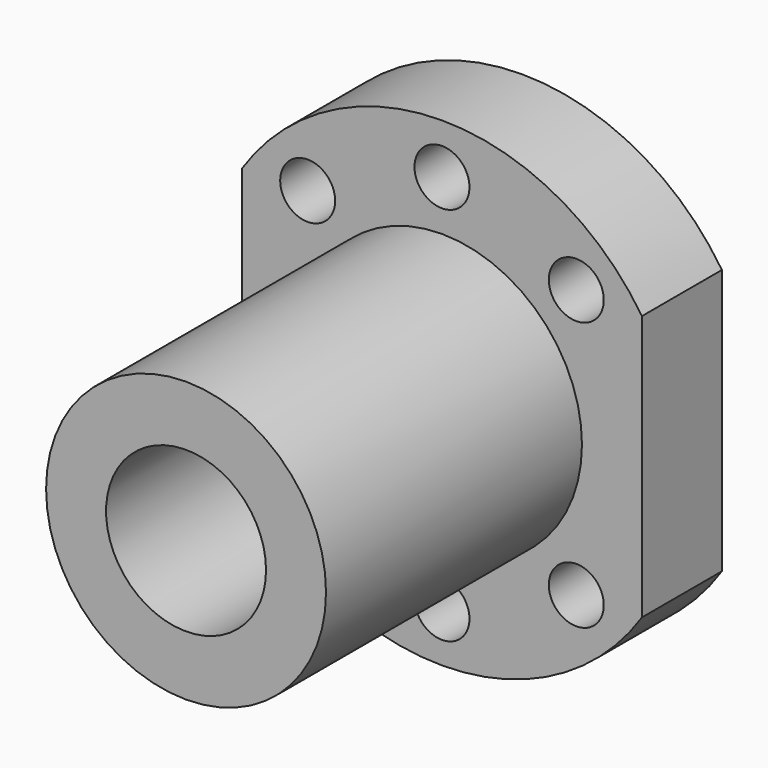
from build123d import *

# Parameters (mm, degrees)
F1_DEPTH = 10
F2_R     = 14
F3_DEPTH = 32
F4_R     = 8
F5_DEPTH = 42.001
F6_R     = 2.75
F7_DEPTH = 42.001


with BuildPart() as f1:
    # F0 (on Front) → F1 (new body)
    with BuildSketch(Plane.XZ):
        with BuildLine():
            Line((-20, 13.266499), (-20, -13.266499))
            ThreePointArc((-20, -13.266499), (0, -24), (20, -13.266499))
            Line((20, -13.266499), (20, 13.266499))
            ThreePointArc((20, 13.266499), (0, 24), (-20, 13.266499))
        make_face()
    extrude(amount=F1_DEPTH)

    # F2 (on face) → F3 (join)
    with BuildSketch(Plane.XZ.offset(10)):
        Circle(F2_R)
    extrude(amount=F3_DEPTH)

    # F4 (on face) → F5 (cut, through all)
    with BuildSketch(Plane.XZ.offset(42)):
        Circle(F4_R)
    extrude(amount=-F5_DEPTH, mode=Mode.SUBTRACT)

    # F6 (on face) → F7 (cut, through all)
    with BuildSketch(Plane(origin=(0, 0, 0), x_dir=(-1, 0, 0), z_dir=(0, 1, 0))):
        with Locations((0, 19)):
            Circle(F6_R)
        with Locations((-13.435029, 13.435029)):
            Circle(F6_R)
        with Locations((-13.435029, -13.435029)):
            Circle(F6_R)
        with Locations((0, -19)):
            Circle(F6_R)
        with Locations((13.435029, -13.435029)):
            Circle(F6_R)
        with Locations((13.435029, 13.435029)):
            Circle(F6_R)
    extrude(amount=-F7_DEPTH, mode=Mode.SUBTRACT)


solid = f1.part
